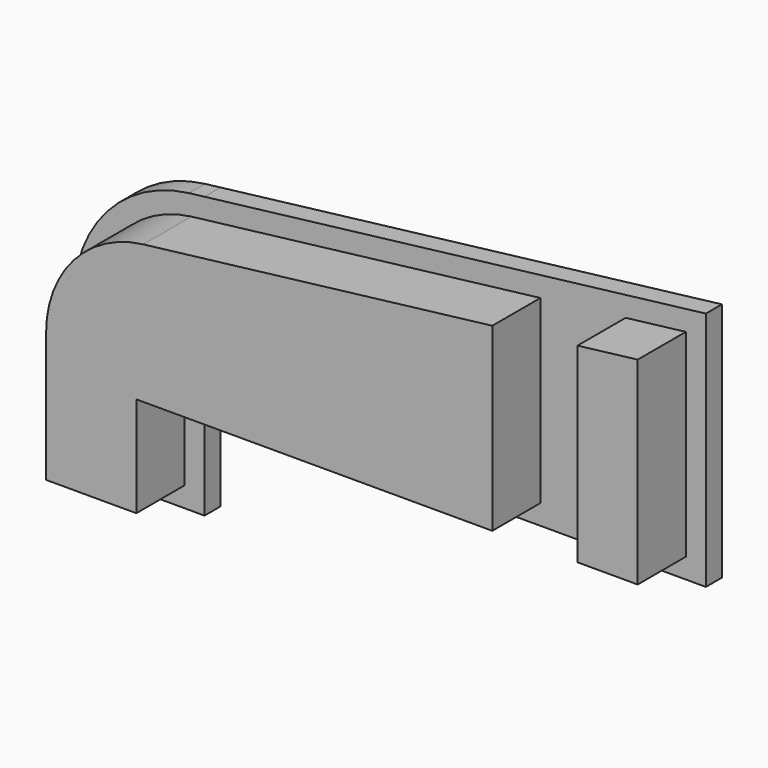
from build123d import *

# Parameters (mm, degrees)
F1_DEPTH = 2
F3_DEPTH = 6
F4_W     = 8.5
F4_H     = 26
F5_DEPTH = 6


with BuildPart() as f1:
    # F0 (on Front) → F1 (new body)
    with BuildSketch(Plane.XZ):
        with BuildLine():
            Line((-10, -10), (-10, 0))
            Line((-10, 0), (-10, 18))
            Line((-10, 18), (-11.548888, 17.814133))
            ThreePointArc((-11.548888, 17.814133), (-19.724596, 13.534146), (-23, 4.906735))
            Line((-23, 4.906735), (-23, -10))
            Line((-23, -10), (-10, -10))
        make_face()
        Polygon((-10, 0), (0, 0), (40, 0), (40, 24), (-10, 18), align=None)
    extrude(amount=-F1_DEPTH)

    # F2 (on face) → F3 (join)
    with BuildSketch(Plane.XZ):
        with BuildLine():
            Line((0, 2), (38, 2))
            Line((38, 2), (38, 21.745651))
            Line((38, 21.745651), (-11.310597, 15.82838))
            ThreePointArc((-11.310597, 15.82838), (-18.228504, 12.206852), (-21, 4.906735))
            Line((-21, 4.906735), (-21, -8))
            Line((-21, -8), (-12, -8))
            Line((-12, -8), (-12, 2))
            Line((-12, 2), (0, 2))
        make_face()
    extrude(amount=F3_DEPTH)

    # F4 (on face) → F5 (cut)
    with BuildSketch(Plane.XZ.offset(6)):
        with Locations((27.75, 9.903788)):
            Rectangle(F4_W, F4_H)
    extrude(amount=-F5_DEPTH, mode=Mode.SUBTRACT)


solid = f1.part
